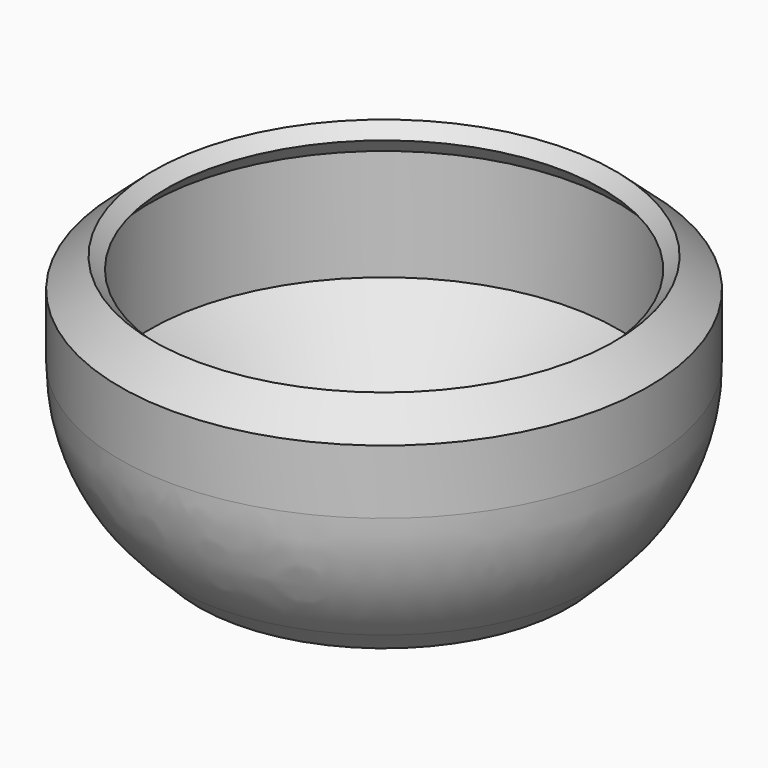
from build123d import *

# Parameters (mm, degrees)
F0_R     = 5
F1_DEPTH = 0.8
F1_TAPER = 45
F4_R     = 5


with BuildPart() as f1:
    # F0 (on Top) → F1 (new body)
    with BuildSketch(Plane.XY):
        Circle(F0_R)
    extrude(amount=F1_DEPTH, taper=F1_TAPER)

    # F2 (on Right) → F3 (revolve)
    with BuildSketch(Plane.YZ):
        Polygon((-7.1213203436, 2.1213203436), (-5, 0), (-4.2, 0.8), (-6.3213203436, 2.9213203436), (-6.3213203436, 5.9213203436), (-5.8819954284, 6.4012245275), (-6.227712161, 6.7177084827), (-7.1213203436, 5.9213203436), align=None)
    revolve(axis=Axis((0, 0, 0.8), (0, 0, -1)))

    # F4
    f4_edges = [f1.edges().sort_by_distance(p)[0] for p in [
        (0, 7.12132, 2.12132),
    ]]
    fillet(f4_edges, radius=F4_R)


solid = f1.part
